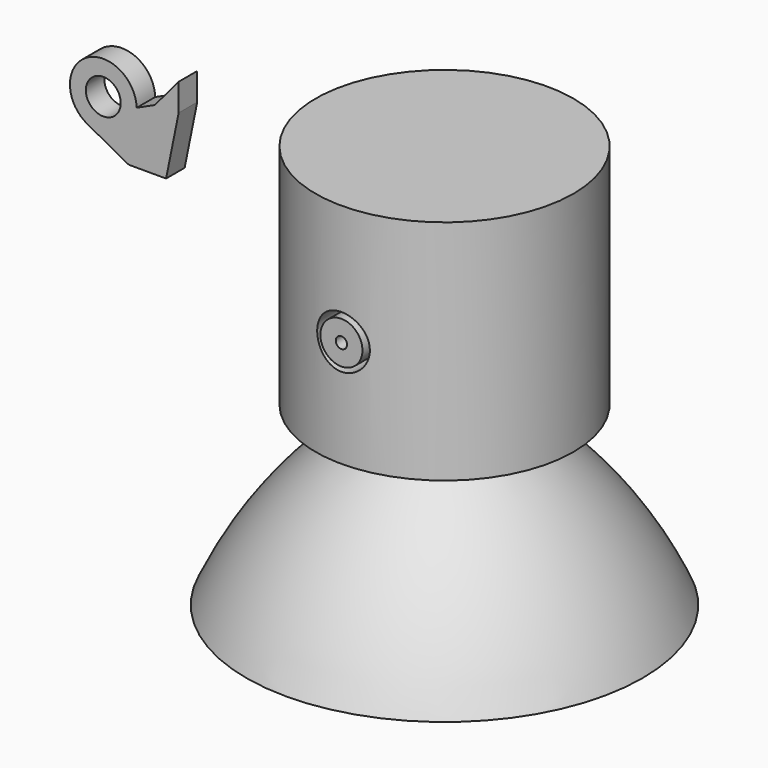
from build123d import *

# Parameters (mm, degrees)
F0_R      = 32.488713
F1_DEPTH  = 57.275616
F2_R      = 6.634026
F3_DEPTH  = 67.93195
F4_R      = 5.296658
F5_DEPTH  = 32.472778
F6_R      = 1.422577
F7_DEPTH  = 36.744092
F8_W      = 20.290306
F8_H      = 5.900018
F10_R     = 4.394028
F11_DEPTH = 5.842


with BuildPart() as f1:
    # F0 (on Top) → F1 (new body)
    with BuildSketch(Plane.XY):
        Circle(F0_R)
    extrude(amount=F1_DEPTH)

    # F2 (on Front) → F3 (cut)
    with BuildSketch(Plane.XZ):
        with Locations((0, 27.070664)):
            Circle(F2_R)
    extrude(amount=F3_DEPTH, mode=Mode.SUBTRACT)

    # F4 (on Front) → F5 (join)
    with BuildSketch(Plane.XZ):
        with Locations((0, 26.89255)):
            Circle(F4_R)
    extrude(amount=F5_DEPTH)

    # F6 (on Front) → F7 (cut)
    with BuildSketch(Plane.XZ):
        with Locations((0, 26.888128)):
            Circle(F6_R)
    extrude(amount=F7_DEPTH, mode=Mode.SUBTRACT)

    # F8 (on Front) → F9 (revolve)
    with BuildSketch(Plane.XZ):
        with Locations((-10.145153, -2.950009)):
            Rectangle(F8_W, F8_H)
        Polygon((0, -5.900018), (-20.290306, -5.900018), (-49.934298, -44.465989), (-41.012321, -44.465989), (0, -44.465989), align=None)
        with BuildLine():
            Line((-49.934298, -44.465989), (-20.290306, -5.900018))
            ThreePointArc((-20.290306, -5.900018), (-37.388735, -23.433208), (-49.934298, -44.465989))
        make_face()
    revolve(axis=Axis((0, 0, -22.232994), (0, 0, -1)))


with BuildPart() as f11:
    # F10 (on Front) → F11 (new body)
    with BuildSketch(Plane.XZ):
        with BuildLine():
            ThreePointArc((-85.292622, 36.79541), (-76.992317, 36.972119), (-72.892344, 44.191295))
            ThreePointArc((-72.892344, 44.191295), (-72.893386, 44.323689), (-72.896514, 44.456051))
            ThreePointArc((-72.896514, 44.456051), (-85.71694, 51.341758), (-85.292622, 36.79541))
        make_face()
        with Locations((-81.298043, 44.191295)):
            Circle(F10_R, mode=Mode.SUBTRACT)
        with BuildLine():
            ThreePointArc((-72.896514, 44.456051), (-72.893386, 44.323689), (-72.892344, 44.191295))
            ThreePointArc((-72.892344, 44.191295), (-76.992317, 36.972119), (-85.292622, 36.79541))
            Line((-85.292622, 36.79541), (-74.872592, 31.167465))
            Line((-74.872592, 31.167465), (-65.475807, 31.167465))
            Line((-65.475807, 31.167465), (-62.309947, 46.768438))
            Line((-62.309947, 46.768438), (-62.309947, 53.675774))
            Line((-62.309947, 53.675774), (-68.313414, 46.553496))
            Line((-68.313414, 46.553496), (-72.896514, 44.456051))
        make_face()
    extrude(amount=F11_DEPTH)


solid = Compound([f1.part, f11.part])
